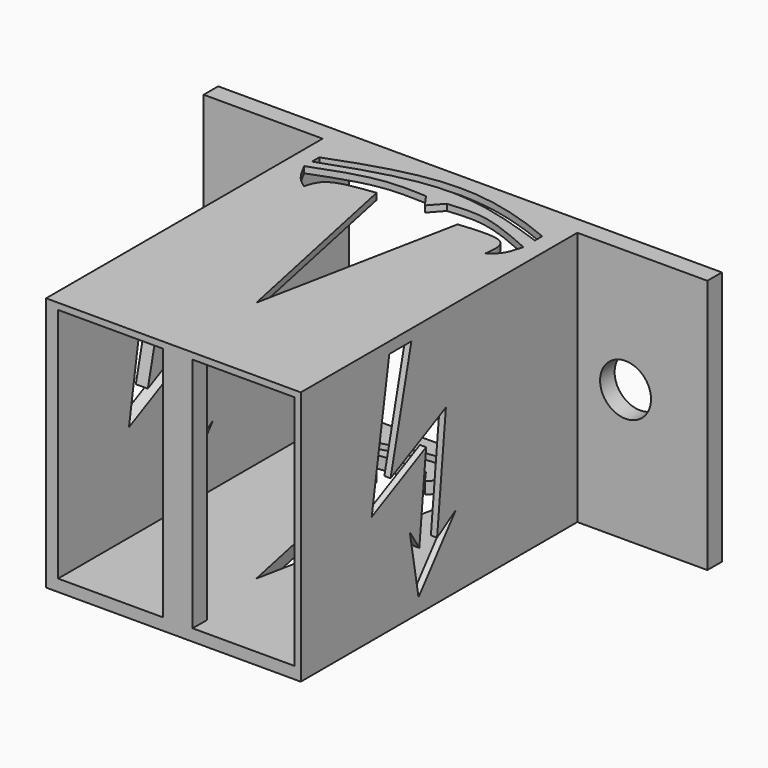
from build123d import *

# Parameters (mm, degrees)
F0_W     = 16.51
F0_H     = 16.51
F1_DEPTH = 25.4
F2_DEPTH = 1.27
F3_W     = 2.0776223391
F3_H     = 16.51
F4_DEPTH = 1.27
F6_DEPTH = 25.4
F7_DEPTH = 25.4
F9_DEPTH = 25.4


with BuildPart() as f1:
    # F0 (on Front) → F1 (new body)
    with BuildSketch(Plane.XZ):
        Polygon((-12.7, 17.78), (-12.7, 0), (5.08, 0), (5.08, 17.78), (-1.6868454662, 17.78), (-11.0267034072, 17.78), align=None)
        with Locations((-3.6083517036, 9.0820713734)):
            Rectangle(F0_W, F0_H, mode=Mode.SUBTRACT)
    extrude(amount=F1_DEPTH)

    # F0 (on Front) → F2 (join)
    with BuildSketch(Plane.XZ):
        Polygon((5.08, 17.78), (5.08, 0), (9.8179201984, 0), (14.156437479, 0), (14.156437479, 17.78), align=None)
        with BuildLine():
            ThreePointArc((10.2224697215, 9.2207446613), (10.1182795894, 8.6210409628), (9.8179201984, 8.0916220872))
            ThreePointArc((9.8179201984, 8.0916220872), (6.7706598535, 9.8204483598), (10.2224697215, 9.2207446613))
        make_face(mode=Mode.SUBTRACT)
        Polygon((-17.6224078121, 0), (-12.7, 0), (-12.7, 17.78), (-21.0051871836, 17.78), (-21.0051871836, 0), align=None)
        with BuildLine():
            ThreePointArc((-15.1775302785, 9.7398206054), (-15.9616550989, 8.2655424338), (-17.6224078121, 8.0916220872))
            ThreePointArc((-17.6224078121, 8.0916220872), (-17.9494054582, 11.214098777), (-15.1775302785, 9.7398206054))
        make_face(mode=Mode.SUBTRACT)
    extrude(amount=F2_DEPTH)

    # F3 (on face) → F4 (join)
    with BuildSketch(Plane.XZ.offset(25.4)):
        with Locations((-3.5050697625, 9.0820713734)):
            Rectangle(F3_W, F3_H)
    extrude(amount=-F4_DEPTH)

    # F5 (on face) → F6 (cut)
    with BuildSketch(Plane.XY.offset(17.78)):
        with BuildLine():
            add(Edge.make_bspline(
                [(-11.4639988169, -4.4281571172), (-10.0358634717, -3.8929210102), (-7.3803737684, -2.8976974302), (-5.1160963141, -2.9965142105), (-4.0695583448, -3.0421868432)],
                knots=[0, 0, 0, 0, 0.537804889, 1, 1, 1, 1], degree=3))
            add(Edge.make_bspline(
                [(-11.4639988169, -4.4281571172), (-11.2335025458, -4.8760855819), (-10.8116877987, -5.6958074416), (-10.2449531144, -6.1079470517), (-9.9879046902, -6.2948772684)],
                knots=[0, 0, 0, 0, 0.5464395751, 1, 1, 1, 1], degree=3))
            add(Edge.make_bspline(
                [(-9.9879046902, -6.2948772684), (-9.8695721846, -5.8763909593), (-9.5686381047, -4.8121289313), (-7.6029272392, -4.5714618683), (-6.4101680182, -4.4254292734)],
                knots=[0, 0, 0, 0, 0.3932173638, 1, 1, 1, 1], degree=3))
            Line((-6.4101680182, -4.4254292734), (-3.4243748523, -18.6468530446))
            Line((-3.4243748523, -18.6468530446), (-0.6353389472, -4.5714618683))
            add(Edge.make_bspline(
                [(2.6892786846, -6.2948772684), (2.7672555561, -5.692468388), (2.9570065875, -4.2265503015), (0.6963289054, -4.4436045559), (-0.6353389472, -4.5714618683)],
                knots=[0, 0, 0, 0, 0.4109430711, 1, 1, 1, 1], degree=3))
            add(Edge.make_bspline(
                [(3.8439988169, -4.4281571172), (3.7274667115, -4.8776545533), (3.5111403764, -5.7120866844), (2.9487273368, -6.1108995589), (2.6892786846, -6.2948772684)],
                knots=[0, 0, 0, 0, 0.5386866342, 1, 1, 1, 1], degree=3))
            add(Edge.make_bspline(
                [(-2.6147300377, -3.0421868432), (-1.7772407376, -2.9600663715), (0.1072011507, -2.7752863907), (2.5093950918, -3.8378314893), (3.8439988169, -4.4281571172)],
                knots=[0, 0, 0, 0, 0.4444229909, 1, 1, 1, 1], degree=3))
            Line((-2.6147300377, -3.0421868432), (-3.4243748523, -3.9433562197))
            Line((-3.4243748523, -3.9433562197), (-4.0695583448, -3.0421868432))
        make_face()
    extrude(amount=-F6_DEPTH, mode=Mode.SUBTRACT)

    # F5 (on face) → F7 (cut)
    with BuildSketch(Plane.XY.offset(17.78)):
        with BuildLine():
            add(Edge.make_bspline(
                [(-11.4639988169, -3.1084690166), (-8.7410812528, -2.0636636712), (-3.4755510657, -0.348344732), (1.4604731959, -1.7838376735), (3.8439988169, -2.7909690166)],
                knots=[0, 0, 0, 0, 0.5130969467, 1, 1, 1, 1], degree=3))
            Line((-11.4639988169, -3.1084690166), (-11.4639988169, -3.7434690166))
            add(Edge.make_bspline(
                [(-11.4639988169, -3.7434690166), (-8.7505363209, -2.7891388945), (-3.4664606444, -0.9494297621), (1.451506038, -2.5961580239), (3.8439988169, -3.4259690166)],
                knots=[0, 0, 0, 0, 0.5131028564, 1, 1, 1, 1], degree=3))
            Line((3.8439988169, -3.4259690166), (3.8439988169, -2.7909690166))
        make_face()
    extrude(amount=-F7_DEPTH, mode=Mode.SUBTRACT)

    # F8 (on face) → F9 (cut)
    with BuildSketch(Plane.YZ.offset(5.08)):
        Polygon((-15.7516691834, 16.9958509505), (-17.678219825, 16.9958509505), (-19.2132685333, 7.6134679839), (-14.464029111, 9.9643664435), (-15.0580760092, 4.0148696862), (-15.8892981708, 5.3257164545), (-15.1292448863, 1.0167160071), (-11.8707427755, 5.0529837608), (-13.5078604351, 4.0148696862), (-12.7400701141, 11.7044410627), (-17.5688574807, 9.3141659529), align=None)
    extrude(amount=-F9_DEPTH, mode=Mode.SUBTRACT)


solid = f1.part
